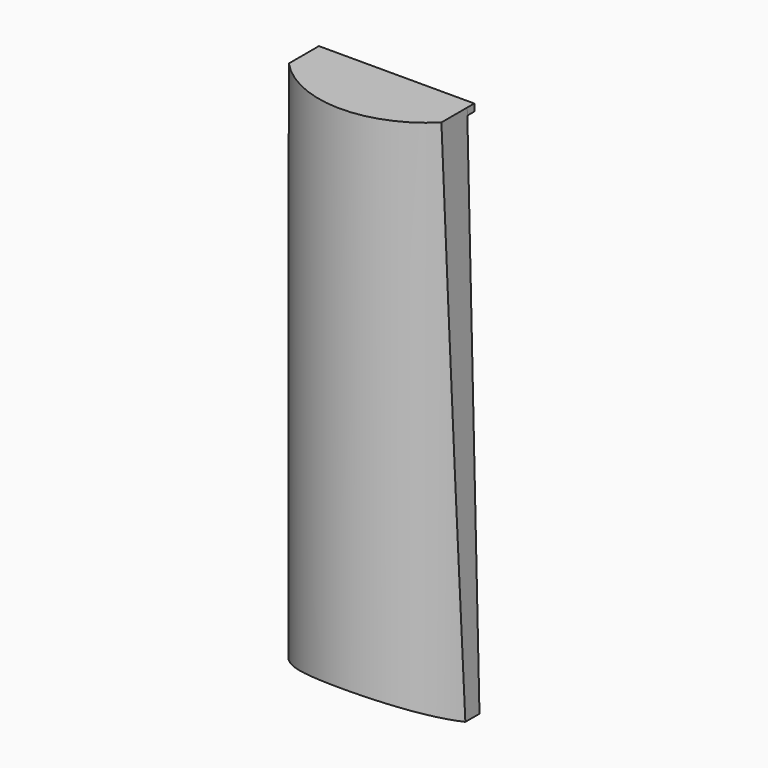
from build123d import *

# Parameters (mm, degrees)
F0_W     = 63.5
F0_H     = 6.35
F1_DEPTH = 190.5
F3_DEPTH = 25.4
F5_DEPTH = 25.4
F7_DEPTH = 3.175


with BuildPart() as f1:
    # F0 (on Top) → F1 (new body)
    with BuildSketch(Plane.XY):
        with BuildLine():
            Line((51.371804, 0), (-12.128196, 0))
            ThreePointArc((-12.128196, 0), (19.621804, -16.493909), (51.371804, 0))
        make_face()
        with Locations((19.621804, 3.175)):
            Rectangle(F0_W, F0_H)
    extrude(amount=F1_DEPTH)

    # F2 (on face) → F3 (cut)
    with BuildSketch(Plane(origin=(0, 6.35, 0), x_dir=(-1, 0, 0), z_dir=(0, 1, 0))):
        Polygon((-51.371804, 190.5), (-51.371804, 0), (-46.952475, 190.5), align=None)
        Polygon((8.916664, 190.5), (12.128196, 0), (12.128196, 190.5), align=None)
    extrude(amount=-F3_DEPTH, mode=Mode.SUBTRACT)

    # F4 (on face) → F5 (cut)
    with BuildSketch(Plane(origin=(0, 6.35, 0), x_dir=(-1, 0, 0), z_dir=(0, 1, 0))):
        with BuildLine():
            Line((-51.371804, 0), (12.128196, 0))
            ThreePointArc((12.128196, 0), (-19.621804, 7.10176), (-51.371804, 0))
        make_face()
    extrude(amount=-F5_DEPTH, mode=Mode.SUBTRACT)

    # F6 (on face) → F7 (join)
    with BuildSketch(Plane(origin=(0, 6.35, 0), x_dir=(-1, 0, 0), z_dir=(0, 1, 0))):
        Polygon((8.916664, 190.5), (-46.952475, 190.5), (-47.011383, 187.960683), (8.959473, 187.960683), align=None)
    extrude(amount=F7_DEPTH)


solid = f1.part
